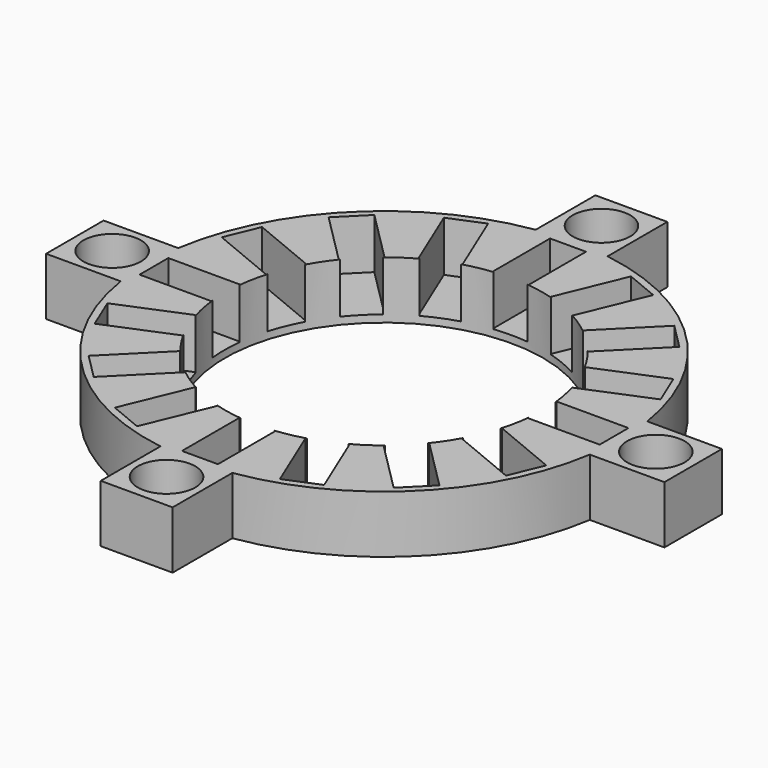
from build123d import *

# Parameters (mm, degrees)
F0_W     = 33
F0_H     = 8
F2_R     = 22.125
F3_DEPTH = 25
F5_DEPTH = 7
F7_DEPTH = 8
F8_R     = 4
F9_DEPTH = 25


with BuildPart() as f1:
    # F0 (on Front) → F1 (revolve)
    with BuildSketch(Plane.XZ):
        with Locations((16.5, 4)):
            Rectangle(F0_W, F0_H)
    revolve(axis=Axis((0, 0, 4), (0, 0, 1)))

    # F2 (on Top) → F3 (cut)
    with BuildSketch(Plane.XY):
        Circle(F2_R)
    extrude(amount=F3_DEPTH, mode=Mode.SUBTRACT)

    # F4 (on face) → F5 (cut)
    with BuildSketch(Plane.XY.offset(8)):
        Polygon((-2.5, 22), (0, 22), (2.5, 22), (2.5, 32), (-2.5, 32), align=None)
        Polygon((-14.555569, 28.607436), (-10.728734, 19.368641), (-8.419036, 20.32535), (-6.109337, 21.282058), (-9.936171, 30.520854), align=None)
        Polygon((-24.395184, 20.85965), (-17.324116, 13.788582), (-15.556349, 15.556349), (-13.788582, 17.324116), (-20.85965, 24.395184), align=None)
        Polygon((-30.520854, 9.936171), (-21.282058, 6.109337), (-20.32535, 8.419036), (-19.368641, 10.728734), (-28.607436, 14.555569), align=None)
        Polygon((-32, -2.5), (-22, -2.5), (-22, 0), (-22, 2.5), (-32, 2.5), align=None)
        Polygon((-28.607436, -14.555569), (-19.368641, -10.728734), (-20.32535, -8.419036), (-21.282058, -6.109337), (-30.520854, -9.936171), align=None)
        Polygon((-20.85965, -24.395184), (-13.788582, -17.324116), (-15.556349, -15.556349), (-17.324116, -13.788582), (-24.395184, -20.85965), align=None)
        Polygon((-9.936171, -30.520854), (-6.109337, -21.282058), (-8.419036, -20.32535), (-10.728734, -19.368641), (-14.555569, -28.607436), align=None)
        Polygon((2.5, -32), (2.5, -22), (0, -22), (-2.5, -22), (-2.5, -32), align=None)
        Polygon((14.555569, -28.607436), (10.728734, -19.368641), (8.419036, -20.32535), (6.109337, -21.282058), (9.936171, -30.520854), align=None)
        Polygon((24.395184, -20.85965), (17.324116, -13.788582), (15.556349, -15.556349), (13.788582, -17.324116), (20.85965, -24.395184), align=None)
        Polygon((30.520854, -9.936171), (21.282058, -6.109337), (20.32535, -8.419036), (19.368641, -10.728734), (28.607436, -14.555569), align=None)
        Polygon((32, 2.5), (22, 2.5), (22, 0), (22, -2.5), (32, -2.5), align=None)
        Polygon((28.607436, 14.555569), (19.368641, 10.728734), (20.32535, 8.419036), (21.282058, 6.109337), (30.520854, 9.936171), align=None)
        Polygon((20.85965, 24.395184), (13.788582, 17.324116), (15.556349, 15.556349), (17.324116, 13.788582), (24.395184, 20.85965), align=None)
        Polygon((9.936171, 30.520854), (6.109337, 21.282058), (8.419036, 20.32535), (10.728734, 19.368641), (14.555569, 28.607436), align=None)
    extrude(amount=-F5_DEPTH, mode=Mode.SUBTRACT)

    # F6 (on Top) → F7 (join)
    with BuildSketch(Plane.XY):
        Polygon((43, -5), (43, 0), (43, 5), (32.619013, 5), (32.619013, -5), align=None)
        Polygon((5, 32.619013), (5, 43), (0, 43), (-5, 43), (-5, 32.619013), align=None)
        Polygon((-32.619013, 5), (-43, 5), (-43, 0), (-43, -5), (-32.619013, -5), align=None)
        Polygon((-5, -32.619013), (-5, -43), (0, -43), (5, -43), (5, -32.619013), align=None)
    extrude(amount=F7_DEPTH)

    # F8 (on face) → F9 (cut)
    with BuildSketch(Plane.XY.offset(8)):
        with Locations((0, 37.809506)):
            Circle(F8_R)
        with Locations((37.809506, 0)):
            Circle(F8_R)
        with Locations((-37.809506, 0)):
            Circle(F8_R)
        with Locations((0, -37.809506)):
            Circle(F8_R)
    extrude(amount=-F9_DEPTH, mode=Mode.SUBTRACT)


solid = f1.part
